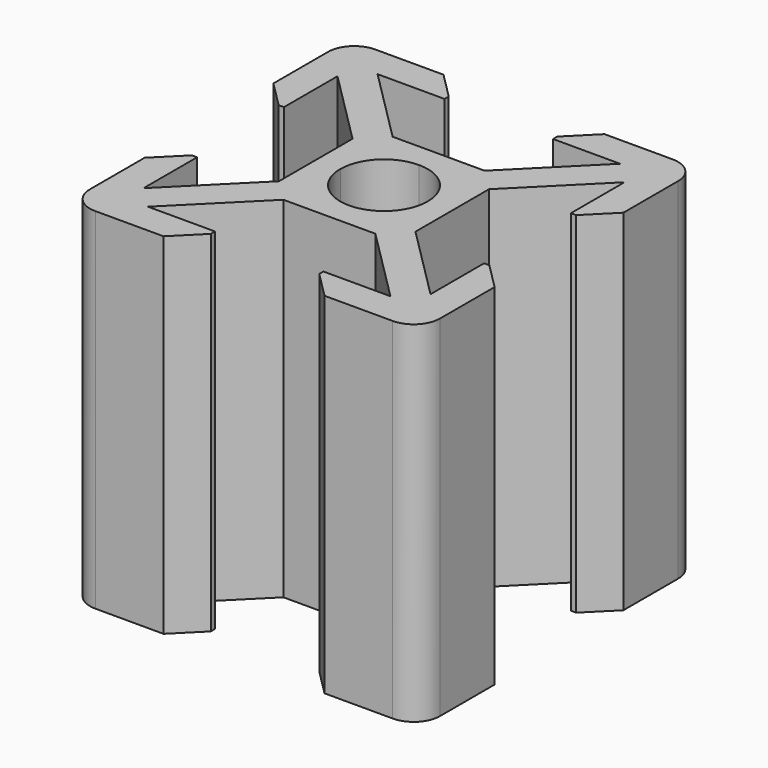
from build123d import *

# Parameters (mm, degrees)
PAD_DEPTH            = 20
POLARPATTERN_COUNT   = 4
FILLET_R             = 1.5
CHAMFER_SIZE         = 1.5
BODY_PLACEMENT_ANGLE = 270


with BuildPart() as part:
    # Sketch → Pad (new body)
    with BuildSketch(Plane.XZ):
        with BuildLine():
            Line((0, 3.9), (2.627208, 3.9))
            Line((2.627208, 3.9), (6.927208, 8.2))
            Line((6.927208, 8.2), (3.1, 8.2))
            Line((3.1, 8.2), (3.1, 10))
            Line((3.1, 10), (10, 10))
            Line((10, 10), (10, 3.1))
            Line((10, 3.1), (8.2, 3.1))
            Line((8.2, 3.1), (8.2, 6.927208))
            Line((3.9, 2.627208), (8.2, 6.927208))
            Line((3.9, 2.627208), (3.9, 0))
            Line((2.5, 0), (3.9, 0))
            ThreePointArc((2.5, 0), (1.767767, 1.767767), (0, 2.5))
            Line((0, 3.9), (0, 2.5))
        make_face()
    pad = extrude(amount=PAD_DEPTH)

    # PolarPattern: Pad ×4 about axis
    polarpattern_axis = Axis((0, 0, 0), (0, -1, 0))
    for i in range(1, POLARPATTERN_COUNT):
        add(pad.rotate(polarpattern_axis, i * 360 / POLARPATTERN_COUNT))

    # Fillet
    fillet_edges = [part.edges().sort_by_distance(p)[0] for p in [
        (-10, -10, 10),
        (10, -10, 10),
        (10, -10, -10),
        (-10, -10, -10),
    ]]
    fillet(fillet_edges, radius=FILLET_R)

    # Chamfer
    chamfer_edges = [part.edges().sort_by_distance(p)[0] for p in [
        (3.1, -10, 10),
        (-3.1, -10, 10),
        (-10, -10, 3.1),
        (-10, -10, -3.1),
        (-3.1, -10, -10),
        (10, -10, -3.1),
        (3.1, -10, -10),
        (10, -10, 3.1),
    ]]
    chamfer(chamfer_edges, length=CHAMFER_SIZE)


with BuildPart() as part_1:
    # Body placement: moved
    add(part.part.rotate(Axis((0, 0, 0), (1, 0, 0)), BODY_PLACEMENT_ANGLE))


solid = part_1.part
